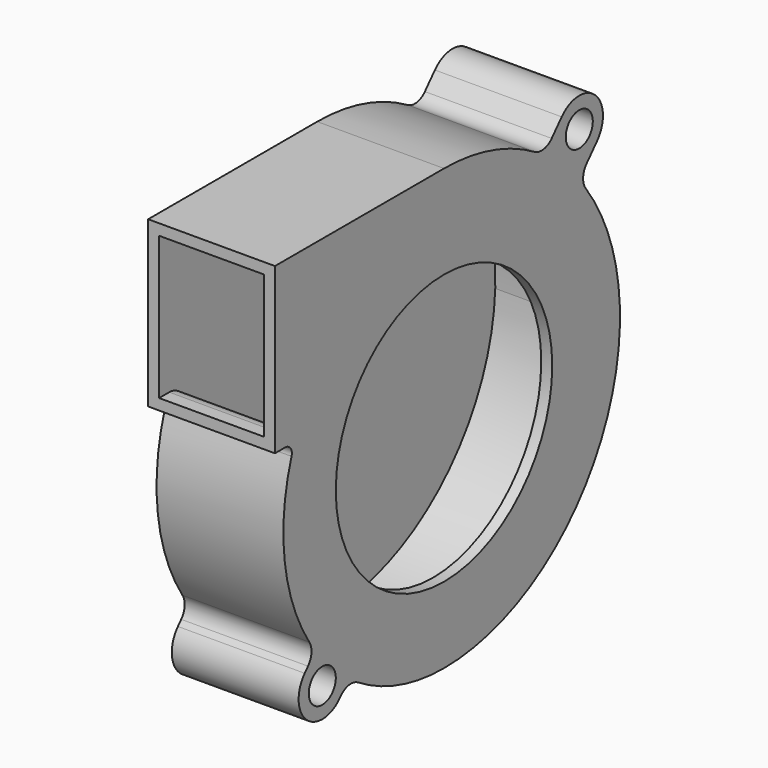
from build123d import *

# Parameters (mm, degrees)
F0_R     = 2
F0_R_2   = 16
F0_R_3   = 12
F1_DEPTH = 15
F2_T     = -1.3
F3_R     = 16
F4_DEPTH = 13.7


with BuildPart() as f1:
    # F0 (on Right) → F1 (new body)
    with BuildSketch(Plane.YZ):
        with BuildLine():
            Line((0, 27.04), (-25, 27.04))
            Line((-25, 27.04), (-25, 7.54))
            Line((-25, 7.54), (-23.5, 7.54))
            ThreePointArc((-23.5, 7.54), (-22.6893076327, 7.1254723611), (-22.5507240512, 6.2255557713))
            ThreePointArc((-22.5507240512, 6.2255557713), (-23.560917154, -4.2802307332), (-19.9204959385, -14.1867625963))
            ThreePointArc((-19.9204959385, -14.1867625963), (-19.6037904967, -15.4335268949), (-20.1118893252, -16.6152879255))
            Line((-20.1118893252, -16.6152879255), (-20.6000079963, -17.1569339704))
            ThreePointArc((-20.6000079963, -17.1569339704), (-20.3430660296, -22.1000079963), (-15.3999920037, -21.8430660296))
            Line((-15.3999920037, -21.8430660296), (-15.2488749918, -21.6753774394))
            ThreePointArc((-15.2488749918, -21.6753774394), (-14.0358697185, -21.0329527273), (-12.6944101233, -21.3237747657))
            ThreePointArc((-12.6944101233, -21.3237747657), (-6.6080004607, -24.0624425834), (0, -25))
            ThreePointArc((0, -25), (18.0346887969, -17.7360763487), (26, 0))
            ThreePointArc((26, 0), (24.8756586881, 8.6516449625), (20.9547141799, 16.4453153497))
            ThreePointArc((20.9547141799, 16.4453153497), (20.5678212068, 17.7298278052), (21.0796574448, 18.969860904))
            Line((21.0796574448, 18.969860904), (22.6000079963, 20.6569339704))
            ThreePointArc((22.6000079963, 20.6569339704), (22.3430660296, 25.6000079963), (17.3999920037, 25.3430660296))
            Line((17.3999920037, 25.3430660296), (15.9178980328, 23.6984447825))
            ThreePointArc((15.9178980328, 23.6984447825), (14.7273428061, 23.0592399542), (13.4020450466, 23.3230398953))
            ThreePointArc((13.4020450466, 23.3230398953), (6.9539665632, 26.0935467981), (0, 27.04))
        make_face()
        with Locations((-18, -19.5)):
            Circle(F0_R, mode=Mode.SUBTRACT)
        Circle(F0_R_2, mode=Mode.SUBTRACT)
        with Locations((20, 23)):
            Circle(F0_R, mode=Mode.SUBTRACT)
        Circle(F0_R_2)
        Circle(F0_R_3, mode=Mode.SUBTRACT)
        Circle(F0_R_3)
    extrude(amount=F1_DEPTH)

    # F2
    f2_openings = [f1.faces().sort_by_distance(p)[0] for p in [
        (7.5, -25, 17.29),
    ]]
    offset(amount=F2_T, openings=f2_openings)

    # F3 (on face) → F4 (cut, through all)
    with BuildSketch(Plane.YZ.offset(15)):
        Circle(F3_R)
    extrude(amount=-F4_DEPTH, mode=Mode.SUBTRACT)


solid = f1.part
